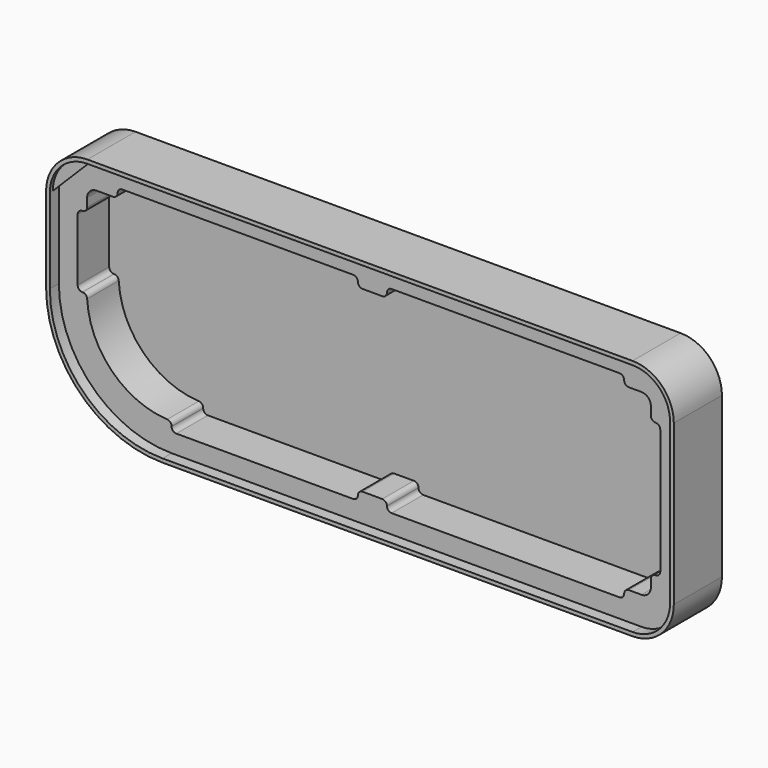
from build123d import *

# Parameters (mm, degrees)
F2_DEPTH = 25
F3_DEPTH = 4
F5_DEPTH = 25
F7_DEPTH = 5
F9_DEPTH = 27


with BuildPart() as f2:
    # F1 (on Front) → F2 (new body)
    with BuildSketch(Plane.XZ):
        with BuildLine():
            Line((-4.999997, 100), (-4.999997, 55))
            ThreePointArc((-4.999997, 55), (12.573595, 12.573595), (55, -4.999997))
            Line((55, -4.999997), (305, -4.999997))
            ThreePointArc((305, -4.999997), (319.142134, 0.857866), (324.999997, 15))
            Line((324.999997, 15), (324.999997, 100))
            ThreePointArc((324.999997, 100), (319.142134, 114.142134), (305, 119.999997))
            Line((305, 119.999997), (15, 119.999997))
            ThreePointArc((15, 119.999997), (0.857866, 114.142134), (-4.999997, 100))
        make_face()
    extrude(amount=F2_DEPTH)

    # F2_face (on face) + F0 (on Front) → F3 (cut)
    with BuildSketch(Plane(origin=(162.569356, -25, 58.319242), x_dir=(1, 0, 0), z_dir=(0, -1, 0))):
        with BuildLine():
            Line((-167.569353, 41.680758), (-167.569353, -3.319242))
            ThreePointArc((-167.569353, -3.319242), (-149.995761, -45.745647), (-107.569356, -63.31924))
            Line((-107.569356, -63.31924), (142.430644, -63.31924))
            ThreePointArc((142.430644, -63.31924), (156.572778, -57.461376), (162.430642, -43.319242))
            Line((162.430642, -43.319242), (162.430642, 41.680758))
            ThreePointArc((162.430642, 41.680758), (156.572778, 55.822891), (142.430644, 61.680755))
            Line((142.430644, 61.680755), (-147.569356, 61.680755))
            ThreePointArc((-147.569356, 61.680755), (-161.711489, 55.822891), (-167.569353, 41.680758))
        make_face()
        with BuildLine():
            Line((-167.569353, -3.319242), (-167.569353, 41.680758))
            ThreePointArc((-167.569353, 41.680758), (-161.711489, 55.822891), (-147.569356, 61.680755))
            Line((-147.569356, 61.680755), (142.430644, 61.680755))
            ThreePointArc((142.430644, 61.680755), (156.572778, 55.822891), (162.430642, 41.680758))
            Line((162.430642, 41.680758), (162.430642, -43.319242))
            ThreePointArc((162.430642, -43.319242), (156.572778, -57.461376), (142.430644, -63.31924))
            Line((142.430644, -63.31924), (-107.569356, -63.31924))
            ThreePointArc((-107.569356, -63.31924), (-149.995761, -45.745647), (-167.569353, -3.319242))
        make_face()
    with BuildSketch(Plane.XZ):
        with BuildLine():
            Line((186.97083, 115), (189.871952, 0))
            Line((189.871952, 0), (305, 0))
            ThreePointArc((305, 0), (315.606602, 4.393398), (320, 15))
            Line((320, 15), (320, 100))
            ThreePointArc((320, 100), (315.606602, 110.606602), (305, 115))
            Line((305, 115), (186.97083, 115))
        make_face()
    extrude(amount=-F3_DEPTH, mode=Mode.SUBTRACT)

    # F4 (on face) → F5 (cut)
    with BuildSketch(Plane.XZ.offset(21)):
        with BuildLine():
            Line((298.285159, 10.000003), (305, 10.000003))
            ThreePointArc((305, 10.000003), (308.535532, 11.464468), (309.999997, 15))
            Line((309.999997, 15), (309.999997, 19.032604))
            ThreePointArc((309.999997, 19.032604), (310.73223, 20.800371), (312.499997, 21.532604))
            ThreePointArc((312.499997, 21.532604), (314.267764, 22.264838), (314.999997, 24.032604))
            Line((314.999997, 24.032604), (314.999997, 90.549462))
            ThreePointArc((314.999997, 90.549462), (314.267764, 92.317228), (312.499997, 93.049462))
            ThreePointArc((312.499997, 93.049462), (310.73223, 93.781695), (309.999997, 95.549462))
            Line((309.999997, 95.549462), (309.999997, 100))
            ThreePointArc((309.999997, 100), (308.535532, 103.535532), (305, 104.999997))
            Line((305, 104.999997), (298.285159, 104.999997))
            ThreePointArc((298.285159, 104.999997), (296.517392, 105.73223), (295.785159, 107.499997))
            ThreePointArc((295.785159, 107.499997), (295.052926, 109.267764), (293.285159, 109.999997))
            Line((293.285159, 109.999997), (172.063606, 109.999997))
            ThreePointArc((172.063606, 109.999997), (170.295839, 109.267764), (169.563606, 107.499997))
            ThreePointArc((169.563606, 107.499997), (168.831373, 105.73223), (167.063606, 104.999997))
            Line((167.063606, 104.999997), (156.609553, 104.999997))
            ThreePointArc((156.609553, 104.999997), (154.841786, 105.73223), (154.109553, 107.499997))
            ThreePointArc((154.109553, 107.499997), (153.377319, 109.267764), (151.609553, 109.999997))
            Line((151.609553, 109.999997), (28.773657, 109.999997))
            ThreePointArc((28.773657, 109.999997), (27.00589, 109.267764), (26.273657, 107.499997))
            ThreePointArc((26.273657, 107.499997), (25.541424, 105.73223), (23.773657, 104.999997))
            Line((23.773657, 104.999997), (15, 104.999997))
            ThreePointArc((15, 104.999997), (11.464468, 103.535532), (10.000003, 100))
            Line((10.000003, 100), (10.000003, 95.549462))
            ThreePointArc((10.000003, 95.549462), (9.26777, 93.781695), (7.500003, 93.049462))
            ThreePointArc((7.500003, 93.049462), (5.732236, 92.317228), (5.000003, 90.549462))
            Line((5.000003, 90.549462), (5.000003, 57.5))
            ThreePointArc((5.000003, 57.5), (5.732236, 55.732233), (7.500003, 55))
            Line((7.500003, 55), (7.565838, 55))
            ThreePointArc((7.565838, 55), (9.286456, 54.313691), (10.062373, 52.631579))
            ThreePointArc((10.062373, 52.631579), (23.180197, 23.180197), (52.631579, 10.062373))
            ThreePointArc((52.631579, 10.062373), (54.313691, 9.286456), (55, 7.565838))
            Line((55, 7.565838), (55, 7.500003))
            ThreePointArc((55, 7.500003), (55.732233, 5.732236), (57.5, 5.000003))
            Line((57.5, 5.000003), (151.609553, 5.000003))
            ThreePointArc((151.609553, 5.000003), (153.377319, 5.732236), (154.109553, 7.500003))
            ThreePointArc((154.109553, 7.500003), (154.841786, 9.26777), (156.609553, 10.000003))
            Line((156.609553, 10.000003), (167.063606, 10.000003))
            ThreePointArc((167.063606, 10.000003), (168.831373, 9.26777), (169.563606, 7.500003))
            ThreePointArc((169.563606, 7.500003), (170.295839, 5.732236), (172.063606, 5.000003))
            Line((172.063606, 5.000003), (293.285159, 5.000003))
            ThreePointArc((293.285159, 5.000003), (295.052926, 5.732236), (295.785159, 7.500003))
            ThreePointArc((295.785159, 7.500003), (296.517392, 9.26777), (298.285159, 10.000003))
        make_face()
    extrude(amount=-F5_DEPTH, mode=Mode.SUBTRACT)

    # F6 (on face) → F7 (join)
    with BuildSketch(Plane(origin=(0, 0, 0), x_dir=(-1, 0, 0), z_dir=(0, 1, 0))):
        with BuildLine():
            Line((6.999997, 55), (6.999997, 100))
            ThreePointArc((6.999997, 100), (0.556347, 115.556347), (-15, 121.999997))
            Line((-15, 121.999997), (-305, 121.999997))
            ThreePointArc((-305, 121.999997), (-320.556347, 115.556347), (-326.999997, 100))
            Line((-326.999997, 100), (-326.999997, 15))
            ThreePointArc((-326.999997, 15), (-320.556347, -0.556347), (-305, -6.999997))
            Line((-305, -6.999997), (-55, -6.999997))
            ThreePointArc((-55, -6.999997), (-11.159381, 11.159381), (6.999997, 55))
        make_face()
    extrude(amount=F7_DEPTH)

    # F8 (on face) → F9 (join)
    with BuildSketch(Plane.XZ):
        with BuildLine():
            Line((326.999997, 15), (326.999997, 100))
            ThreePointArc((326.999997, 100), (320.556347, 115.556347), (305, 121.999997))
            Line((305, 121.999997), (15, 121.999997))
            ThreePointArc((15, 121.999997), (-0.556347, 115.556347), (-6.999997, 100))
            Line((-6.999997, 100), (-6.999997, 55))
            ThreePointArc((-6.999997, 55), (11.159381, 11.159381), (55, -6.999997))
            Line((55, -6.999997), (305, -6.999997))
            ThreePointArc((305, -6.999997), (320.556347, -0.556347), (326.999997, 15))
        make_face()
        with BuildLine():
            ThreePointArc((-4.999997, 100), (0.857866, 114.142134), (15, 119.999997))
            Line((15, 119.999997), (305, 119.999997))
            ThreePointArc((305, 119.999997), (319.142134, 114.142134), (324.999997, 100))
            Line((324.999997, 100), (324.999997, 15))
            ThreePointArc((324.999997, 15), (319.142134, 0.857866), (305, -4.999997))
            Line((305, -4.999997), (55, -4.999997))
            ThreePointArc((55, -4.999997), (12.573595, 12.573595), (-4.999997, 55))
            Line((-4.999997, 55), (-4.999997, 100))
        make_face(mode=Mode.SUBTRACT)
    extrude(amount=F9_DEPTH)


solid = f2.part
